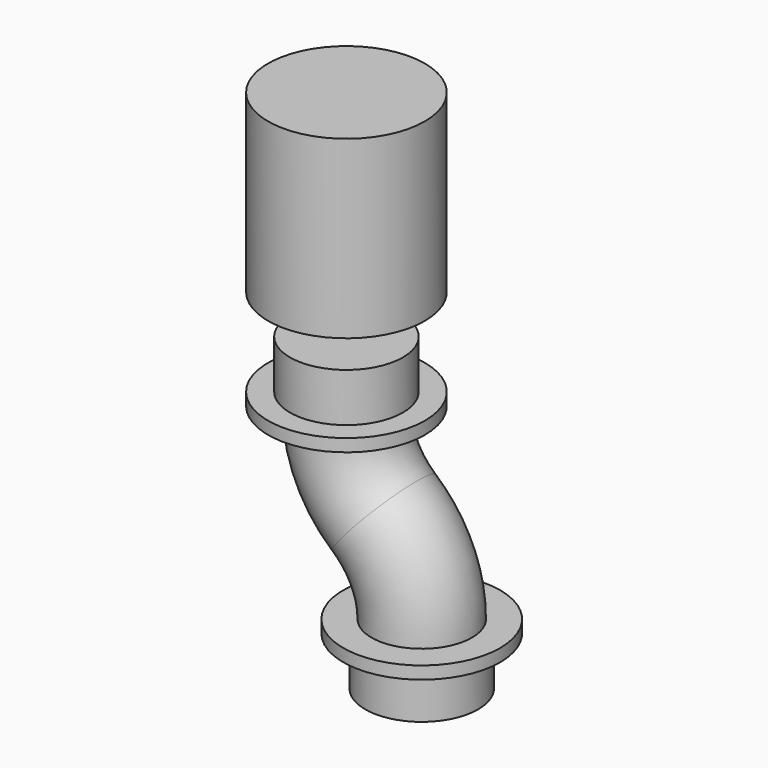
from build123d import *

# Parameters (mm, degrees)
F2_R      = 12.7
F2_R_2    = 19.8374
F5_DEPTH  = 3.175
F0_R      = 19.8374
F0_R_2    = 12.7
F6_DEPTH  = 3.175
F7_R      = 14.2875
F8_DEPTH  = 12.2936
F9_R      = 14.2875
F10_DEPTH = 12.2936
F12_R     = 19.8374
F13_DEPTH = 44.45


with BuildPart() as f4:
    # F4: sweep along a path in F3
    with BuildLine(Plane.XZ) as f4_path:
        ThreePointArc((-19.05, 41.275), (-16.5538776828, 29.910229531), (-9.525, 20.6375))
        ThreePointArc((-9.525, 20.6375), (-2.4961223172, 11.364770469), (0, 0))
    # F2 (on offset) → F4 (sweep)
    with BuildSketch(Plane.XY.offset(41.275)):
        with Locations((-19.05, 0)):
            Circle(F2_R)
    sweep(path=f4_path.line)

    # F2 (on offset) → F5 (join)
    with BuildSketch(Plane.XY.offset(41.275)):
        with Locations((-19.05, 0)):
            Circle(F2_R_2)
        with Locations((-19.05, 0)):
            Circle(F2_R, mode=Mode.SUBTRACT)
        with Locations((-19.05, 0)):
            Circle(F2_R)
    extrude(amount=F5_DEPTH)

    # F0 (on Top) → F6 (join)
    with BuildSketch(Plane.XY):
        Circle(F0_R)
        Circle(F0_R_2, mode=Mode.SUBTRACT)
        Circle(F0_R_2)
    extrude(amount=-F6_DEPTH)

    # F7 (on face) → F8 (join)
    with BuildSketch(Plane.XY.offset(44.45)):
        with Locations((-19.05, 0)):
            Circle(F7_R)
    extrude(amount=F8_DEPTH)

    # F9 (on face) → F10 (join)
    with BuildSketch(Plane(origin=(0, 0, -3.175), x_dir=(1, 0, 0), z_dir=(0, 0, -1))):
        Circle(F9_R)
    extrude(amount=F10_DEPTH)


with BuildPart() as f13:
    # F12 (on offset) → F13 (new body)
    with BuildSketch(Plane.XY.offset(66.675)):
        with Locations((-19.05, 0)):
            Circle(F12_R)
    extrude(amount=F13_DEPTH)


solid = Compound([f4.part, f13.part])
